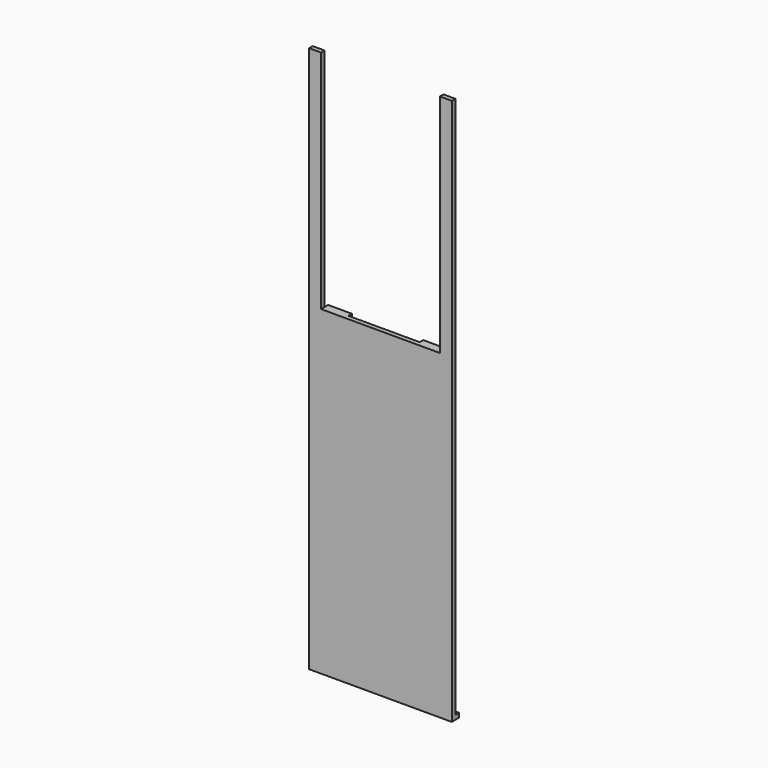
from build123d import *

# Parameters (mm, degrees)
F0_W     = 152.4
F0_H     = 342.9
F1_DEPTH = 4.7625
F2_W     = 25.4
F2_H     = 4.7625
F3_DEPTH = 9.525
F4_W     = 152.4
F4_H     = 4.7625
F5_DEPTH = 9.525
F6_W     = 12.7
F6_H     = 241.3
F7_DEPTH = 4.7625


with BuildPart() as f1:
    # F0 (on Front) → F1 (new body)
    with BuildSketch(Plane.XZ):
        Rectangle(F0_W, F0_H)
    extrude(amount=F1_DEPTH)

    # F2 (on face) → F3 (join)
    with BuildSketch(Plane.XZ.offset(4.7625)):
        with Locations((-50.8, 169.06875)):
            Rectangle(F2_W, F2_H)
        with Locations((50.8, 169.06875)):
            Rectangle(F2_W, F2_H)
    extrude(amount=-F3_DEPTH)

    # F4 (on face) → F5 (join)
    with BuildSketch(Plane.XZ.offset(4.7625)):
        with Locations((0, -169.06875)):
            Rectangle(F4_W, F4_H)
    extrude(amount=-F5_DEPTH)

    # F6 (on Front) → F7 (join)
    with BuildSketch(Plane.XZ):
        with Locations((-69.85, 292.1)):
            Rectangle(F6_W, F6_H)
        with Locations((69.85, 292.1)):
            Rectangle(F6_W, F6_H)
    extrude(amount=F7_DEPTH)


solid = f1.part
